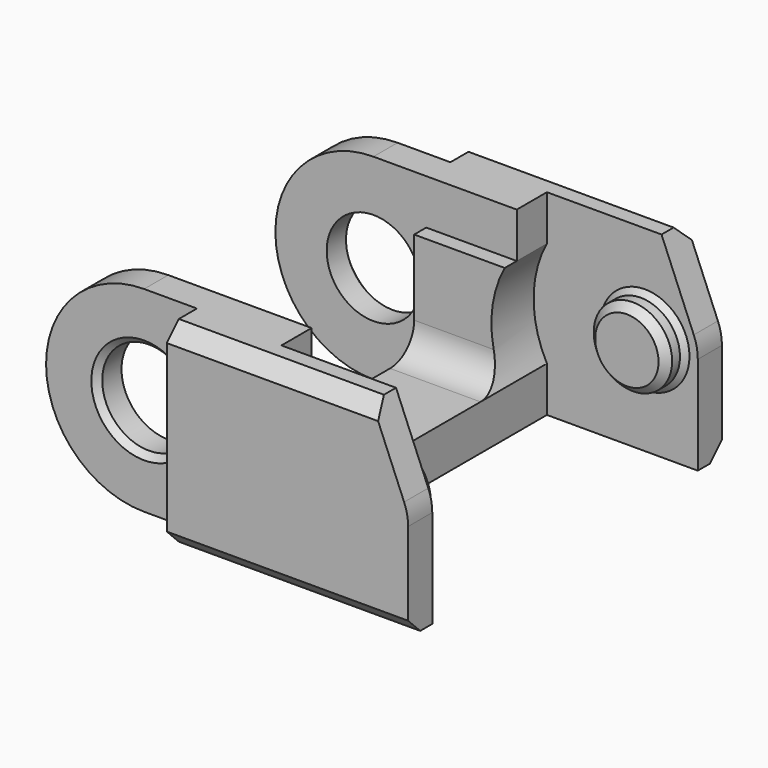
from build123d import *

# Parameters (mm, degrees)
SKETCH_R             = 3.1
PAD_DEPTH            = 13
SKETCH001_R          = 2.6
POCKET_DEPTH         = 11
POCKET001_DEPTH      = 8.5
POCKET002_DEPTH      = 13.001
POCKET002_DEPTH_BACK = -13.001
SKETCH004_W          = 18.821557
SKETCH004_H          = 5.678009
SKETCH004_H_2        = 5.407065
SKETCH004_W_2        = 10.052157
SKETCH004_H_3        = 19
POCKET003_DEPTH      = 6.501
POCKET003_DEPTH_BACK = -6.501
CHAMFER_SIZE         = 0.5
CHAMFER001_SIZE      = 0.35
CHAMFER002_SIZE      = 0.4
CHAMFER003_SIZE      = 1


with BuildPart() as part:
    # Sketch → Pad (new body, symmetric)
    with BuildSketch(Plane.XZ):
        with BuildLine():
            ThreePointArc((-6.5, 6.5), (-13, 0), (-6.5, -6.5))
            Line((-6.5, -6.5), (13, -6.5))
            Line((13, -6.5), (13, 0))
            ThreePointArc((13, 0), (12.932748, 0.682816), (12.733578, 1.339392))
            Line((10.595985, 6.5), (12.733578, 1.339392))
            Line((10.595985, 6.5), (-6.5, 6.5))
        make_face()
        with Locations((-6.5, 0)):
            Circle(SKETCH_R, mode=Mode.SUBTRACT)
    extrude(amount=PAD_DEPTH, both=True)

    # Sketch001 → Pocket (cut, symmetric)
    with BuildSketch(Plane.XZ):
        with BuildLine():
            ThreePointArc((3, 3.5), (2.117588, 0), (3, -3.5))
            Line((3, -3.5), (3, -7.382412))
            Line((3, -7.382412), (9.5, -7.382412))
            ThreePointArc((9.5, -7.382412), (16.882412, 0), (9.5, 7.382412))
            Line((9.5, 7.382412), (3, 7.382412))
            Line((3, 7.382412), (3, 3.5))
        make_face()
        with Locations((9.5, 0)):
            Circle(SKETCH001_R, mode=Mode.SUBTRACT)
    extrude(amount=POCKET_DEPTH, both=True, mode=Mode.SUBTRACT)

    # Sketch002 → Pocket001 (cut, symmetric)
    with BuildSketch(Plane.XZ):
        with BuildLine():
            Line((-3, 3.5), (3, 3.5))
            Line((3, 3.5), (3, -9.5))
            Line((3, -9.5), (14.967288, -9.5))
            Line((14.967288, -9.5), (14.967288, 9.5))
            Line((14.967288, 9.5), (-6.5, 9.5))
            ThreePointArc((-6.5, 9.5), (-16, 0), (-6.5, -9.5))
            Line((-3, -9.5), (-6.5, -9.5))
            Line((-3, 3.5), (-3, -9.5))
        make_face()
    extrude(amount=POCKET001_DEPTH, both=True, mode=Mode.SUBTRACT)

    # Sketch003 → Pocket002 (cut, two sides)
    with BuildSketch(Plane.YZ) as pocket002_sk:
        with BuildLine():
            Line((-7.5, 8.494664), (7.5, 8.494664))
            Line((7.5, 8.494664), (7.5, -1.5))
            ThreePointArc((5.5, -3.5), (6.914214, -2.914214), (7.5, -1.5))
            Line((5.5, -3.5), (-5.5, -3.5))
            ThreePointArc((-7.5, -1.5), (-6.914214, -2.914214), (-5.5, -3.5))
            Line((-7.5, -1.5), (-7.5, 8.494664))
        make_face()
    extrude(amount=-POCKET002_DEPTH, mode=Mode.SUBTRACT)
    extrude(pocket002_sk.sketch, amount=-POCKET002_DEPTH_BACK, mode=Mode.SUBTRACT)

    # Sketch004 → Pocket003 (cut, two sides)
    with BuildSketch(Plane.XY) as pocket003_sk:
        with Locations((-12.410778, 13.339004)):
            Rectangle(SKETCH004_W, SKETCH004_H)
        with Locations((-12.410778, -13.203532)):
            Rectangle(SKETCH004_W, SKETCH004_H_2)
        with Locations((10.204497, 0)):
            Rectangle(SKETCH004_W_2, SKETCH004_H_3)
    extrude(amount=-POCKET003_DEPTH, mode=Mode.SUBTRACT)
    extrude(pocket003_sk.sketch, amount=-POCKET003_DEPTH_BACK, mode=Mode.SUBTRACT)

    # Chamfer
    chamfer_edges = [part.edges().sort_by_distance(p)[0] for p in [
        (6.9, 9.5, 0),
        (6.9, -9.5, 0),
    ]]
    chamfer(chamfer_edges, length=CHAMFER_SIZE)

    # Chamfer001
    chamfer001_edges = [part.edges().sort_by_distance(p)[0] for p in [
        (6.9, 11, 0),
        (6.9, -11, 0),
    ]]
    chamfer(chamfer001_edges, length=CHAMFER001_SIZE)

    # Chamfer002
    chamfer002_edges = [part.edges().sort_by_distance(p)[0] for p in [
        (-9.6, -10.5, 0),
        (-9.6, 10.5, 0),
    ]]
    chamfer(chamfer002_edges, length=CHAMFER002_SIZE)

    # Chamfer003
    chamfer003_edges = [part.edges().sort_by_distance(p)[0] for p in [
        (3.797992, 13, 6.5),
        (5, 13, -6.5),
        (5, -13, -6.5),
        (3.797992, -13, 6.5),
    ]]
    chamfer(chamfer003_edges, length=CHAMFER003_SIZE)


solid = part.part
